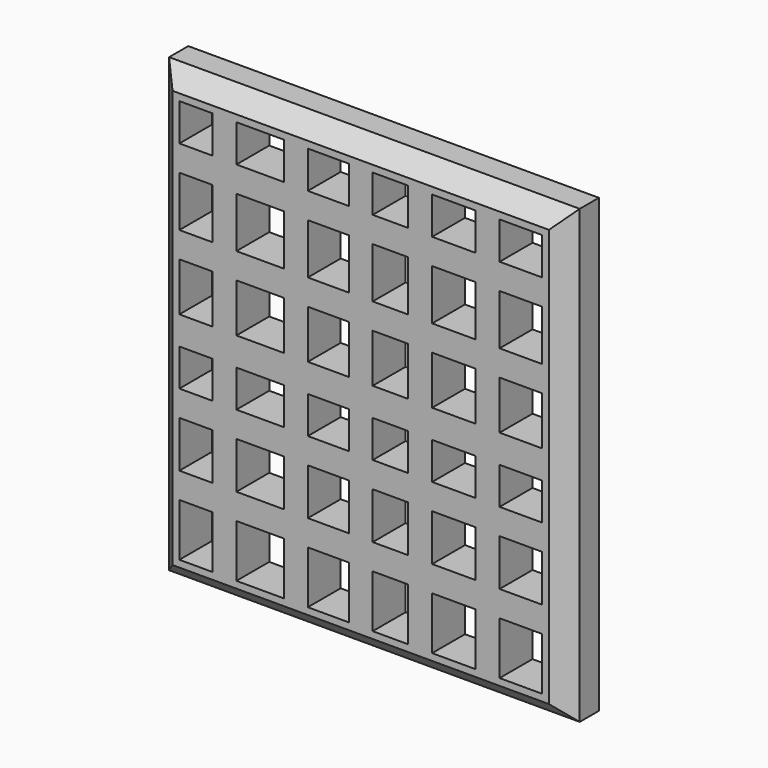
from build123d import *

# Parameters (mm, degrees)
F0_W     = 30.48
F0_H     = 33.528
F0_W_2   = 1.778
F0_H_2   = 2.7663977579
F0_H_3   = 1.9106194377
F0_H_4   = 3.7477533333
F0_H_5   = 3.6007831804
F0_H_6   = 2.099653706
F0_H_7   = 2.7503813617
F0_H_8   = 3.4538120963
F0_H_9   = 3.9107408137
F0_W_3   = 3.1533570525
F0_W_4   = 3.2304820977
F0_W_5   = 2.6331608498
F0_W_6   = 3.0382862671
F0_W_7   = 3.5224076404
F0_W_8   = 2.4563060925
F1_DEPTH = 3.048
F2_SIZE  = 1.27


with BuildPart() as f1:
    # F0 (on Front) → F1 (new body)
    with BuildSketch(Plane.XZ):
        Rectangle(F0_W, F0_H)
        Polygon((-13.462, 12.2196022421), (-13.462, 14.986), (-11.0056939075, 14.986), (-9.2276939075, 14.986), (-5.7052862671, 14.986), (-3.9272862671, 14.986), (-0.889, 14.986), (0.889, 14.986), (3.5221608498, 14.986), (5.3001608498, 14.986), (8.5306429475, 14.986), (10.3086429475, 14.986), (13.462, 14.986), (13.462, 12.2196022421), (13.462, 10.3089828044), (13.462, 6.5612294711), (13.462, 4.6506100334), (13.462, 1.049826853), (13.462, -1.049826853), (13.462, -3.8002082147), (13.462, -5.7108276524), (13.462, -9.1646397486), (13.462, -11.0752591863), (13.462, -14.986), (10.3086429475, -14.986), (8.5306429475, -14.986), (5.3001608498, -14.986), (3.5221608498, -14.986), (0.889, -14.986), (-0.889, -14.986), (-3.9272862671, -14.986), (-5.7052862671, -14.986), (-9.2276939075, -14.986), (-11.0056939075, -14.986), (-13.462, -14.986), (-13.462, -11.0752591863), (-13.462, -9.1646397486), (-13.462, -5.7108276524), (-13.462, -3.8002082147), (-13.462, -1.049826853), (-13.462, 1.049826853), (-13.462, 4.6506100334), (-13.462, 6.5612294711), (-13.462, 10.3089828044), align=None, mode=Mode.SUBTRACT)
        with Locations((-10.1166939075, 13.6028011211)):
            Rectangle(F0_W_2, F0_H_2)
        with Locations((-10.1166939075, 11.2642925233)):
            Rectangle(F0_W_2, F0_H_3)
        with Locations((-10.1166939075, 8.4351061378)):
            Rectangle(F0_W_2, F0_H_4)
        with Locations((-10.1166939075, 5.6059197523)):
            Rectangle(F0_W_2, F0_H_3)
        with Locations((-10.1166939075, 2.8502184432)):
            Rectangle(F0_W_2, F0_H_5)
        with Locations((-10.1166939075, 0)):
            Rectangle(F0_W_2, F0_H_6)
        with Locations((-10.1166939075, -2.4250175338)):
            Rectangle(F0_W_2, F0_H_7)
        with Locations((-10.1166939075, -4.7555179335)):
            Rectangle(F0_W_2, F0_H_3)
        with Locations((-10.1166939075, -7.4377337005)):
            Rectangle(F0_W_2, F0_H_8)
        with Locations((-10.1166939075, -10.1199494675)):
            Rectangle(F0_W_2, F0_H_3)
        with Locations((-10.1166939075, -13.0306295932)):
            Rectangle(F0_W_2, F0_H_9)
        with Locations((-4.8162862671, -13.0306295932)):
            Rectangle(F0_W_2, F0_H_9)
        with Locations((-4.8162862671, -10.1199494675)):
            Rectangle(F0_W_2, F0_H_3)
        with Locations((-4.8162862671, -7.4377337005)):
            Rectangle(F0_W_2, F0_H_8)
        with Locations((-4.8162862671, -4.7555179335)):
            Rectangle(F0_W_2, F0_H_3)
        with Locations((-4.8162862671, -2.4250175338)):
            Rectangle(F0_W_2, F0_H_7)
        with Locations((-4.8162862671, 0)):
            Rectangle(F0_W_2, F0_H_6)
        with Locations((-4.8162862671, 2.8502184432)):
            Rectangle(F0_W_2, F0_H_5)
        with Locations((-4.8162862671, 5.6059197523)):
            Rectangle(F0_W_2, F0_H_3)
        with Locations((-4.8162862671, 8.4351061378)):
            Rectangle(F0_W_2, F0_H_4)
        with Locations((-4.8162862671, 11.2642925233)):
            Rectangle(F0_W_2, F0_H_3)
        with Locations((-4.8162862671, 13.6028011211)):
            Rectangle(F0_W_2, F0_H_2)
        with Locations((0, 13.6028011211)):
            Rectangle(F0_W_2, F0_H_2)
        with Locations((0, 11.2642925233)):
            Rectangle(F0_W_2, F0_H_3)
        with Locations((0, 8.4351061378)):
            Rectangle(F0_W_2, F0_H_4)
        with Locations((0, 5.6059197523)):
            Rectangle(F0_W_2, F0_H_3)
        with Locations((0, 2.8502184432)):
            Rectangle(F0_W_2, F0_H_5)
        Rectangle(F0_W_2, F0_H_6)
        with Locations((0, -2.4250175338)):
            Rectangle(F0_W_2, F0_H_7)
        with Locations((0, -4.7555179335)):
            Rectangle(F0_W_2, F0_H_3)
        with Locations((0, -7.4377337005)):
            Rectangle(F0_W_2, F0_H_8)
        with Locations((0, -10.1199494675)):
            Rectangle(F0_W_2, F0_H_3)
        with Locations((0, -13.0306295932)):
            Rectangle(F0_W_2, F0_H_9)
        with Locations((4.4111608498, -13.0306295932)):
            Rectangle(F0_W_2, F0_H_9)
        with Locations((4.4111608498, -10.1199494675)):
            Rectangle(F0_W_2, F0_H_3)
        with Locations((4.4111608498, -7.4377337005)):
            Rectangle(F0_W_2, F0_H_8)
        with Locations((4.4111608498, -4.7555179335)):
            Rectangle(F0_W_2, F0_H_3)
        with Locations((4.4111608498, -2.4250175338)):
            Rectangle(F0_W_2, F0_H_7)
        with Locations((4.4111608498, 0)):
            Rectangle(F0_W_2, F0_H_6)
        with Locations((4.4111608498, 2.8502184432)):
            Rectangle(F0_W_2, F0_H_5)
        with Locations((4.4111608498, 5.6059197523)):
            Rectangle(F0_W_2, F0_H_3)
        with Locations((4.4111608498, 8.4351061378)):
            Rectangle(F0_W_2, F0_H_4)
        with Locations((4.4111608498, 11.2642925233)):
            Rectangle(F0_W_2, F0_H_3)
        with Locations((4.4111608498, 13.6028011211)):
            Rectangle(F0_W_2, F0_H_2)
        with Locations((9.4196429475, 13.6028011211)):
            Rectangle(F0_W_2, F0_H_2)
        with Locations((9.4196429475, 11.2642925233)):
            Rectangle(F0_W_2, F0_H_3)
        with Locations((9.4196429475, 8.4351061378)):
            Rectangle(F0_W_2, F0_H_4)
        with Locations((9.4196429475, 5.6059197523)):
            Rectangle(F0_W_2, F0_H_3)
        with Locations((9.4196429475, 2.8502184432)):
            Rectangle(F0_W_2, F0_H_5)
        with Locations((9.4196429475, 0)):
            Rectangle(F0_W_2, F0_H_6)
        with Locations((9.4196429475, -2.4250175338)):
            Rectangle(F0_W_2, F0_H_7)
        with Locations((9.4196429475, -4.7555179335)):
            Rectangle(F0_W_2, F0_H_3)
        with Locations((9.4196429475, -7.4377337005)):
            Rectangle(F0_W_2, F0_H_8)
        with Locations((9.4196429475, -10.1199494675)):
            Rectangle(F0_W_2, F0_H_3)
        with Locations((9.4196429475, -13.0306295932)):
            Rectangle(F0_W_2, F0_H_9)
        with Locations((11.8853214738, -10.1199494675)):
            Rectangle(F0_W_3, F0_H_3)
        with Locations((6.9154018987, -10.1199494675)):
            Rectangle(F0_W_4, F0_H_3)
        with Locations((2.2055804249, -10.1199494675)):
            Rectangle(F0_W_5, F0_H_3)
        with Locations((-2.4081431336, -10.1199494675)):
            Rectangle(F0_W_6, F0_H_3)
        with Locations((-7.4664900873, -10.1199494675)):
            Rectangle(F0_W_7, F0_H_3)
        with Locations((-12.2338469538, -10.1199494675)):
            Rectangle(F0_W_8, F0_H_3)
        with Locations((-12.2338469538, -4.7555179335)):
            Rectangle(F0_W_8, F0_H_3)
        with Locations((-7.4664900873, -4.7555179335)):
            Rectangle(F0_W_7, F0_H_3)
        with Locations((-2.4081431336, -4.7555179335)):
            Rectangle(F0_W_6, F0_H_3)
        with Locations((2.2055804249, -4.7555179335)):
            Rectangle(F0_W_5, F0_H_3)
        with Locations((6.9154018987, -4.7555179335)):
            Rectangle(F0_W_4, F0_H_3)
        with Locations((11.8853214738, -4.7555179335)):
            Rectangle(F0_W_3, F0_H_3)
        with Locations((11.8853214738, 0)):
            Rectangle(F0_W_3, F0_H_6)
        with Locations((6.9154018987, 0)):
            Rectangle(F0_W_4, F0_H_6)
        with Locations((2.2055804249, 0)):
            Rectangle(F0_W_5, F0_H_6)
        with Locations((-2.4081431336, 0)):
            Rectangle(F0_W_6, F0_H_6)
        with Locations((-7.4664900873, 0)):
            Rectangle(F0_W_7, F0_H_6)
        with Locations((-12.2338469538, 0)):
            Rectangle(F0_W_8, F0_H_6)
        with Locations((-12.2338469538, 5.6059197523)):
            Rectangle(F0_W_8, F0_H_3)
        with Locations((-7.4664900873, 5.6059197523)):
            Rectangle(F0_W_7, F0_H_3)
        with Locations((-2.4081431336, 5.6059197523)):
            Rectangle(F0_W_6, F0_H_3)
        with Locations((2.2055804249, 5.6059197523)):
            Rectangle(F0_W_5, F0_H_3)
        with Locations((6.9154018987, 5.6059197523)):
            Rectangle(F0_W_4, F0_H_3)
        with Locations((11.8853214738, 5.6059197523)):
            Rectangle(F0_W_3, F0_H_3)
        with Locations((11.8853214738, 11.2642925233)):
            Rectangle(F0_W_3, F0_H_3)
        with Locations((6.9154018987, 11.2642925233)):
            Rectangle(F0_W_4, F0_H_3)
        with Locations((2.2055804249, 11.2642925233)):
            Rectangle(F0_W_5, F0_H_3)
        with Locations((-2.4081431336, 11.2642925233)):
            Rectangle(F0_W_6, F0_H_3)
        with Locations((-7.4664900873, 11.2642925233)):
            Rectangle(F0_W_7, F0_H_3)
        with Locations((-12.2338469538, 11.2642925233)):
            Rectangle(F0_W_8, F0_H_3)
    extrude(amount=F1_DEPTH)

    # F2
    f2_edges = [f1.edges().sort_by_distance(p)[0] for p in [
        (-15.24, -3.048, 0),
        (0, -3.048, -16.764),
        (15.24, -3.048, 0),
        (0, -3.048, 16.764),
    ]]
    chamfer(f2_edges, length=F2_SIZE)


solid = f1.part
